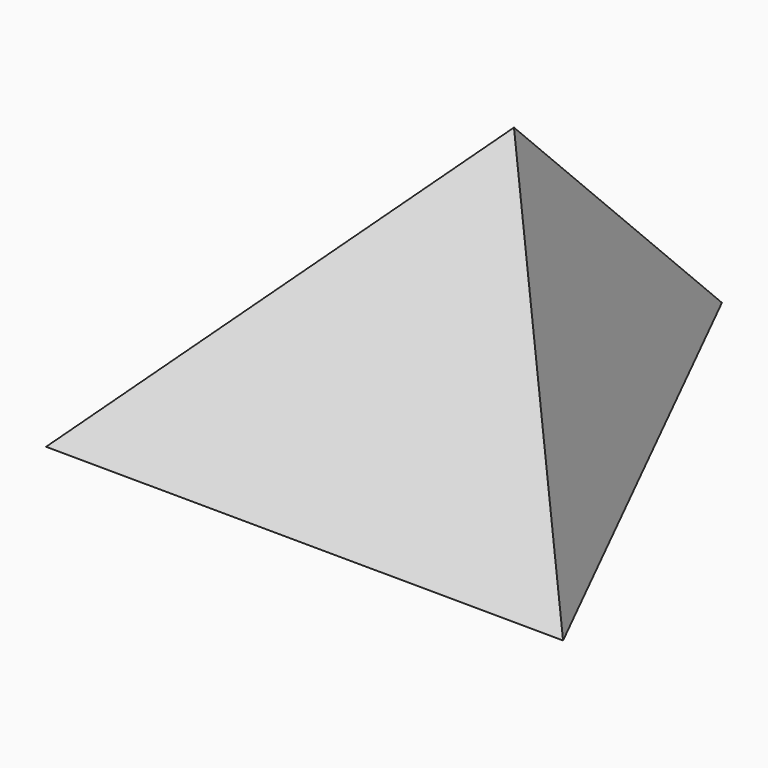
from build123d import *


with BuildPart() as f2:
    # F0 (on Top) → F2 section 0
    with BuildSketch(Plane.XY, mode=Mode.PRIVATE) as f2_s0:
        Polygon((0, 25.4), (-25.4, -25.4), (25.4, -25.755244), align=None)
    loft([f2_s0.sketch, Vertex(0, 0, 25.4)])


solid = f2.part
